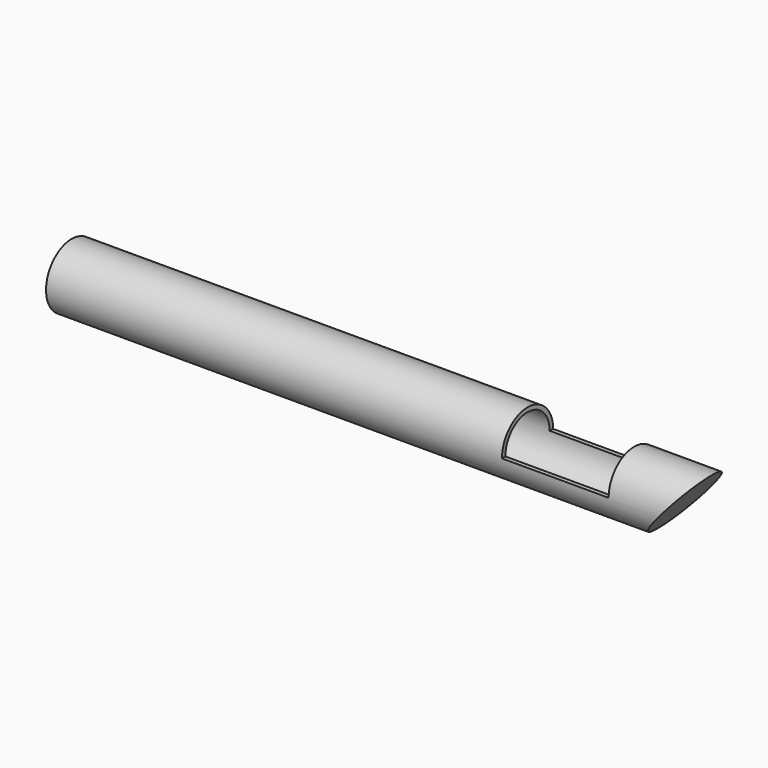
from build123d import *

# Parameters (mm, degrees)
F0_R     = 7.5
F1_DEPTH = 150
F3_DEPTH = 12.5
F4_W     = 25
F4_H     = 20
F5_DEPTH = 36
F6_R     = 6.5
F7_DEPTH = 136


with BuildPart() as f1:
    # F0 (on Right) → F1 (new body)
    with BuildSketch(Plane.YZ):
        Circle(F0_R)
    extrude(amount=F1_DEPTH)

    # F2 (on Front) → F3 (intersect, symmetric)
    with BuildSketch(Plane.XZ):
        Polygon((134.290012, -11.203319), (151.53335, 9.346492), (-5.394438, 11.139952), (-5.394438, -11.203319), align=None)
    extrude(amount=F3_DEPTH, both=True, mode=Mode.INTERSECT)

    # F4 (on Top) → F5 (cut)
    with BuildSketch(Plane.XY):
        with Locations((119.331561, 0.248567)):
            Rectangle(F4_W, F4_H)
    extrude(amount=F5_DEPTH, mode=Mode.SUBTRACT)

    # F6 (on Right) → F7 (cut)
    with BuildSketch(Plane.YZ):
        Circle(F6_R)
    extrude(amount=F7_DEPTH, mode=Mode.SUBTRACT)


solid = f1.part
